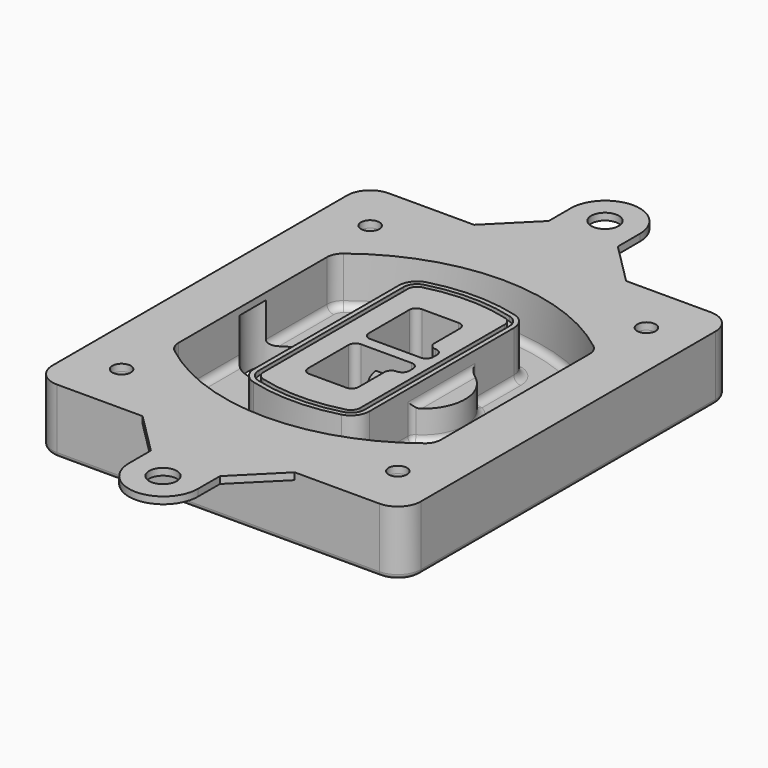
from build123d import *

# Parameters (mm, degrees)
F0_R      = 4
F1_DEPTH  = 25
F2_DEPTH  = 3
F3_DEPTH  = 18
F5_DEPTH  = 21
F6_DEPTH  = 2
F8_DEPTH  = 20
F9_DEPTH  = 16
F10_DEPTH = 25
F7_R      = 6
F7_R_2    = 4
F11_DEPTH = 6
F13_DEPTH = 9
F14_R     = 3
F15_R     = 2
F16_R     = 4
F16_R_2   = 6
F17_DEPTH = 3


with BuildPart() as f1:
    # F0 (on Top) → F1 (new body)
    with BuildSketch(Plane.XY):
        with BuildLine():
            ThreePointArc((-80, -80), (-77.0710678119, -87.0710678119), (-70, -90))
            Line((-70, -90), (70, -90))
            ThreePointArc((70, -90), (77.0710678119, -87.0710678119), (80, -80))
            Line((80, -80), (80, 80))
            ThreePointArc((80, 80), (77.0710678119, 87.0710678119), (70, 90))
            Line((70, 90), (-70, 90))
            ThreePointArc((-70, 90), (-77.0710678119, 87.0710678119), (-80, 80))
            Line((-80, 80), (-80, -80))
        make_face()
        with Locations((-60, -67.5)):
            Circle(F0_R, mode=Mode.SUBTRACT)
        with Locations((60, -67.5)):
            Circle(F0_R, mode=Mode.SUBTRACT)
        with Locations((-60, 67.5)):
            Circle(F0_R, mode=Mode.SUBTRACT)
        with BuildLine():
            ThreePointArc((-64, 40.2934422872), (-62.5820384798, 46.4328484224), (-58.6153846154, 51.3286200352))
            ThreePointArc((-58.6153846154, 51.3286200352), (0, 71.5), (58.6153846154, 51.3286200352))
            ThreePointArc((58.6153846154, 51.3286200352), (62.5820384798, 46.4328484224), (64, 40.2934422872))
            Line((64, 40.2934422872), (64, -40.2934422872))
            ThreePointArc((64, -40.2934422872), (62.5820384798, -46.4328484224), (58.6153846154, -51.3286200352))
            ThreePointArc((58.6153846154, -51.3286200352), (0, -71.5), (-58.6153846154, -51.3286200352))
            ThreePointArc((-58.6153846154, -51.3286200352), (-62.5820384798, -46.4328484224), (-64, -40.2934422872))
            Line((-64, -40.2934422872), (-64, 40.2934422872))
        make_face(mode=Mode.SUBTRACT)
        with Locations((60, 67.5)):
            Circle(F0_R, mode=Mode.SUBTRACT)
        with BuildLine():
            ThreePointArc((58.6153846154, 51.3286200352), (0, 71.5), (-58.6153846154, 51.3286200352))
            ThreePointArc((-58.6153846154, 51.3286200352), (-62.5820384798, 46.4328484224), (-64, 40.2934422872))
            Line((-64, 40.2934422872), (-64, -40.2934422872))
            ThreePointArc((-64, -40.2934422872), (-62.5820384798, -46.4328484224), (-58.6153846154, -51.3286200352))
            ThreePointArc((-58.6153846154, -51.3286200352), (0, -71.5), (58.6153846154, -51.3286200352))
            ThreePointArc((58.6153846154, -51.3286200352), (62.5820384798, -46.4328484224), (64, -40.2934422872))
            Line((64, -40.2934422872), (64, 40.2934422872))
            ThreePointArc((64, 40.2934422872), (62.5820384798, 46.4328484224), (58.6153846154, 51.3286200352))
        make_face()
        with BuildLine():
            Line((-60, -40.2934422872), (-60, 40.2934422872))
            ThreePointArc((-60, 40.2934422872), (-58.9871703427, 44.6787323838), (-56.1538461538, 48.1757121072))
            ThreePointArc((-56.1538461538, 48.1757121072), (0, 67.5), (56.1538461538, 48.1757121072))
            ThreePointArc((56.1538461538, 48.1757121072), (58.9871703427, 44.6787323838), (60, 40.2934422872))
            Line((60, 40.2934422872), (60, -40.2934422872))
            ThreePointArc((60, -40.2934422872), (58.9871703427, -44.6787323838), (56.1538461538, -48.1757121072))
            ThreePointArc((56.1538461538, -48.1757121072), (0, -67.5), (-56.1538461538, -48.1757121072))
            ThreePointArc((-56.1538461538, -48.1757121072), (-58.9871703427, -44.6787323838), (-60, -40.2934422872))
        make_face(mode=Mode.SUBTRACT)
        with BuildLine():
            ThreePointArc((-56.1538461538, 48.1757121072), (-58.9871703427, 44.6787323838), (-60, 40.2934422872))
            Line((-60, 40.2934422872), (-60, -40.2934422872))
            ThreePointArc((-60, -40.2934422872), (-58.9871703427, -44.6787323838), (-56.1538461538, -48.1757121072))
            ThreePointArc((-56.1538461538, -48.1757121072), (0, -67.5), (56.1538461538, -48.1757121072))
            ThreePointArc((56.1538461538, -48.1757121072), (58.9871703427, -44.6787323838), (60, -40.2934422872))
            Line((60, -40.2934422872), (60, 40.2934422872))
            ThreePointArc((60, 40.2934422872), (58.9871703427, 44.6787323838), (56.1538461538, 48.1757121072))
            ThreePointArc((56.1538461538, 48.1757121072), (0, 67.5), (-56.1538461538, 48.1757121072))
        make_face()
        with BuildLine():
            ThreePointArc((54.3076923077, 45.8110311612), (56.2910192399, 43.3631453548), (57, 40.2934422872))
            Line((57, 40.2934422872), (57, -40.2934422872))
            ThreePointArc((57, -40.2934422872), (56.2910192399, -43.3631453548), (54.3076923077, -45.8110311612))
            ThreePointArc((54.3076923077, -45.8110311612), (0, -64.5), (-54.3076923077, -45.8110311612))
            ThreePointArc((-54.3076923077, -45.8110311612), (-56.2910192399, -43.3631453548), (-57, -40.2934422872))
            Line((-57, -40.2934422872), (-57, 40.2934422872))
            ThreePointArc((-57, 40.2934422872), (-56.2910192399, 43.3631453548), (-54.3076923077, 45.8110311612))
            ThreePointArc((-54.3076923077, 45.8110311612), (0, 64.5), (54.3076923077, 45.8110311612))
        make_face(mode=Mode.SUBTRACT)
        with BuildLine():
            Line((57, -40.2934422872), (57, 40.2934422872))
            ThreePointArc((57, 40.2934422872), (56.2910192399, 43.3631453548), (54.3076923077, 45.8110311612))
            ThreePointArc((54.3076923077, 45.8110311612), (0, 64.5), (-54.3076923077, 45.8110311612))
            ThreePointArc((-54.3076923077, 45.8110311612), (-56.2910192399, 43.3631453548), (-57, 40.2934422872))
            Line((-57, 40.2934422872), (-57, -40.2934422872))
            ThreePointArc((-57, -40.2934422872), (-56.2910192399, -43.3631453548), (-54.3076923077, -45.8110311612))
            ThreePointArc((-54.3076923077, -45.8110311612), (0, -64.5), (54.3076923077, -45.8110311612))
            ThreePointArc((54.3076923077, -45.8110311612), (56.2910192399, -43.3631453548), (57, -40.2934422872))
        make_face()
    extrude(amount=-F1_DEPTH)

    # F0 (on Top) → F2 (join)
    with BuildSketch(Plane.XY):
        with BuildLine():
            ThreePointArc((-56.1538461538, 48.1757121072), (-58.9871703427, 44.6787323838), (-60, 40.2934422872))
            Line((-60, 40.2934422872), (-60, -40.2934422872))
            ThreePointArc((-60, -40.2934422872), (-58.9871703427, -44.6787323838), (-56.1538461538, -48.1757121072))
            ThreePointArc((-56.1538461538, -48.1757121072), (0, -67.5), (56.1538461538, -48.1757121072))
            ThreePointArc((56.1538461538, -48.1757121072), (58.9871703427, -44.6787323838), (60, -40.2934422872))
            Line((60, -40.2934422872), (60, 40.2934422872))
            ThreePointArc((60, 40.2934422872), (58.9871703427, 44.6787323838), (56.1538461538, 48.1757121072))
            ThreePointArc((56.1538461538, 48.1757121072), (0, 67.5), (-56.1538461538, 48.1757121072))
        make_face()
        with BuildLine():
            ThreePointArc((54.3076923077, 45.8110311612), (56.2910192399, 43.3631453548), (57, 40.2934422872))
            Line((57, 40.2934422872), (57, -40.2934422872))
            ThreePointArc((57, -40.2934422872), (56.2910192399, -43.3631453548), (54.3076923077, -45.8110311612))
            ThreePointArc((54.3076923077, -45.8110311612), (0, -64.5), (-54.3076923077, -45.8110311612))
            ThreePointArc((-54.3076923077, -45.8110311612), (-56.2910192399, -43.3631453548), (-57, -40.2934422872))
            Line((-57, -40.2934422872), (-57, 40.2934422872))
            ThreePointArc((-57, 40.2934422872), (-56.2910192399, 43.3631453548), (-54.3076923077, 45.8110311612))
            ThreePointArc((-54.3076923077, 45.8110311612), (0, 64.5), (54.3076923077, 45.8110311612))
        make_face(mode=Mode.SUBTRACT)
    extrude(amount=F2_DEPTH)

    # F0 (on Top) → F3 (cut)
    with BuildSketch(Plane.XY):
        with BuildLine():
            Line((57, -40.2934422872), (57, 40.2934422872))
            ThreePointArc((57, 40.2934422872), (56.2910192399, 43.3631453548), (54.3076923077, 45.8110311612))
            ThreePointArc((54.3076923077, 45.8110311612), (0, 64.5), (-54.3076923077, 45.8110311612))
            ThreePointArc((-54.3076923077, 45.8110311612), (-56.2910192399, 43.3631453548), (-57, 40.2934422872))
            Line((-57, 40.2934422872), (-57, -40.2934422872))
            ThreePointArc((-57, -40.2934422872), (-56.2910192399, -43.3631453548), (-54.3076923077, -45.8110311612))
            ThreePointArc((-54.3076923077, -45.8110311612), (0, -64.5), (54.3076923077, -45.8110311612))
            ThreePointArc((54.3076923077, -45.8110311612), (56.2910192399, -43.3631453548), (57, -40.2934422872))
        make_face()
    extrude(amount=-F3_DEPTH, mode=Mode.SUBTRACT)

    # F4 (on face) → F5 (join, through all)
    with BuildSketch(Plane.XY.offset(3)):
        with BuildLine():
            ThreePointArc((-25, -39.2465276821), (-23.3511545998, -44.1109737193), (-19.0842911877, -46.9702398883))
            ThreePointArc((-19.0842911877, -46.9702398883), (0, -49.5), (19.0842911877, -46.9702398883))
            ThreePointArc((19.0842911877, -46.9702398883), (23.3511545998, -44.1109737193), (25, -39.2465276821))
            Line((25, -39.2465276821), (25, 39.2465276821))
            ThreePointArc((25, 39.2465276821), (23.3511545998, 44.1109737193), (19.0842911877, 46.9702398883))
            ThreePointArc((19.0842911877, 46.9702398883), (0, 49.5), (-19.0842911877, 46.9702398883))
            ThreePointArc((-19.0842911877, 46.9702398883), (-23.3511545998, 44.1109737193), (-25, 39.2465276821))
            Line((-25, 39.2465276821), (-25, -39.2465276821))
        make_face()
        with BuildLine():
            ThreePointArc((18.5632183908, 45.0393118368), (21.7633659499, 42.89486221), (23, 39.2465276821))
            Line((23, 39.2465276821), (23, -39.2465276821))
            ThreePointArc((23, -39.2465276821), (21.7633659499, -42.89486221), (18.5632183908, -45.0393118368))
            ThreePointArc((18.5632183908, -45.0393118368), (0, -47.5), (-18.5632183908, -45.0393118368))
            ThreePointArc((-18.5632183908, -45.0393118368), (-21.7633659499, -42.89486221), (-23, -39.2465276821))
            Line((-23, -39.2465276821), (-23, 39.2465276821))
            ThreePointArc((-23, 39.2465276821), (-21.7633659499, 42.89486221), (-18.5632183908, 45.0393118368))
            ThreePointArc((-18.5632183908, 45.0393118368), (0, 47.5), (18.5632183908, 45.0393118368))
        make_face(mode=Mode.SUBTRACT)
        with BuildLine():
            Line((23, -39.2465276821), (23, 39.2465276821))
            ThreePointArc((23, 39.2465276821), (21.7633659499, 42.89486221), (18.5632183908, 45.0393118368))
            ThreePointArc((18.5632183908, 45.0393118368), (0, 47.5), (-18.5632183908, 45.0393118368))
            ThreePointArc((-18.5632183908, 45.0393118368), (-21.7633659499, 42.89486221), (-23, 39.2465276821))
            Line((-23, 39.2465276821), (-23, -39.2465276821))
            ThreePointArc((-23, -39.2465276821), (-21.7633659499, -42.89486221), (-18.5632183908, -45.0393118368))
            ThreePointArc((-18.5632183908, -45.0393118368), (0, -47.5), (18.5632183908, -45.0393118368))
            ThreePointArc((18.5632183908, -45.0393118368), (21.7633659499, -42.89486221), (23, -39.2465276821))
        make_face()
        with BuildLine():
            ThreePointArc((18.0421455939, 43.1083837852), (20.1755772999, 41.6787507007), (21, 39.2465276821))
            Line((21, 39.2465276821), (21, -39.2465276821))
            ThreePointArc((21, -39.2465276821), (20.1755772999, -41.6787507007), (18.0421455939, -43.1083837852))
            ThreePointArc((18.0421455939, -43.1083837852), (0, -45.5), (-18.0421455939, -43.1083837852))
            ThreePointArc((-18.0421455939, -43.1083837852), (-20.1755772999, -41.6787507007), (-21, -39.2465276821))
            Line((-21, -39.2465276821), (-21, 39.2465276821))
            ThreePointArc((-21, 39.2465276821), (-20.1755772999, 41.6787507007), (-18.0421455939, 43.1083837852))
            ThreePointArc((-18.0421455939, 43.1083837852), (0, 45.5), (18.0421455939, 43.1083837852))
        make_face(mode=Mode.SUBTRACT)
        with BuildLine():
            Line((21, -39.2465276821), (21, 39.2465276821))
            ThreePointArc((21, 39.2465276821), (20.1755772999, 41.6787507007), (18.0421455939, 43.1083837852))
            ThreePointArc((18.0421455939, 43.1083837852), (0, 45.5), (-18.0421455939, 43.1083837852))
            ThreePointArc((-18.0421455939, 43.1083837852), (-20.1755772999, 41.6787507007), (-21, 39.2465276821))
            Line((-21, 39.2465276821), (-21, -39.2465276821))
            ThreePointArc((-21, -39.2465276821), (-20.1755772999, -41.6787507007), (-18.0421455939, -43.1083837852))
            ThreePointArc((-18.0421455939, -43.1083837852), (0, -45.5), (18.0421455939, -43.1083837852))
            ThreePointArc((18.0421455939, -43.1083837852), (20.1755772999, -41.6787507007), (21, -39.2465276821))
        make_face()
        with BuildLine():
            Line((-8, -2.5), (14, -2.5))
            ThreePointArc((14, -2.5), (16.1213203436, -3.3786796564), (17, -5.5))
            Line((17, -5.5), (17, -7.5))
            ThreePointArc((17, -7.5), (16.1213203436, -9.6213203436), (14, -10.5))
            ThreePointArc((14, -10.5), (11.8786796564, -11.3786796564), (11, -13.5))
            Line((11, -13.5), (11, -27.5))
            ThreePointArc((11, -27.5), (10.1213203436, -29.6213203436), (8, -30.5))
            Line((8, -30.5), (-8, -30.5))
            ThreePointArc((-8, -30.5), (-10.1213203436, -29.6213203436), (-11, -27.5))
            Line((-11, -27.5), (-11, -5.5))
            ThreePointArc((-11, -5.5), (-10.1213203436, -3.3786796564), (-8, -2.5))
        make_face(mode=Mode.SUBTRACT)
        with BuildLine():
            ThreePointArc((-8, 2.5), (-10.1213203436, 3.3786796564), (-11, 5.5))
            Line((-11, 5.5), (-11, 27.5))
            ThreePointArc((-11, 27.5), (-10.1213203436, 29.6213203436), (-8, 30.5))
            Line((-8, 30.5), (8, 30.5))
            ThreePointArc((8, 30.5), (10.1213203436, 29.6213203436), (11, 27.5))
            Line((11, 27.5), (11, 13.5))
            ThreePointArc((11, 13.5), (11.8786796564, 11.3786796564), (14, 10.5))
            ThreePointArc((14, 10.5), (16.1213203436, 9.6213203436), (17, 7.5))
            Line((17, 7.5), (17, 5.5))
            ThreePointArc((17, 5.5), (16.1213203436, 3.3786796564), (14, 2.5))
            Line((14, 2.5), (-8, 2.5))
        make_face(mode=Mode.SUBTRACT)
    extrude(amount=-F5_DEPTH)

    # F4 (on face) → F6 (cut)
    with BuildSketch(Plane.XY.offset(3)):
        with BuildLine():
            Line((23, -39.2465276821), (23, 39.2465276821))
            ThreePointArc((23, 39.2465276821), (21.7633659499, 42.89486221), (18.5632183908, 45.0393118368))
            ThreePointArc((18.5632183908, 45.0393118368), (0, 47.5), (-18.5632183908, 45.0393118368))
            ThreePointArc((-18.5632183908, 45.0393118368), (-21.7633659499, 42.89486221), (-23, 39.2465276821))
            Line((-23, 39.2465276821), (-23, -39.2465276821))
            ThreePointArc((-23, -39.2465276821), (-21.7633659499, -42.89486221), (-18.5632183908, -45.0393118368))
            ThreePointArc((-18.5632183908, -45.0393118368), (0, -47.5), (18.5632183908, -45.0393118368))
            ThreePointArc((18.5632183908, -45.0393118368), (21.7633659499, -42.89486221), (23, -39.2465276821))
        make_face()
        with BuildLine():
            ThreePointArc((18.0421455939, 43.1083837852), (20.1755772999, 41.6787507007), (21, 39.2465276821))
            Line((21, 39.2465276821), (21, -39.2465276821))
            ThreePointArc((21, -39.2465276821), (20.1755772999, -41.6787507007), (18.0421455939, -43.1083837852))
            ThreePointArc((18.0421455939, -43.1083837852), (0, -45.5), (-18.0421455939, -43.1083837852))
            ThreePointArc((-18.0421455939, -43.1083837852), (-20.1755772999, -41.6787507007), (-21, -39.2465276821))
            Line((-21, -39.2465276821), (-21, 39.2465276821))
            ThreePointArc((-21, 39.2465276821), (-20.1755772999, 41.6787507007), (-18.0421455939, 43.1083837852))
            ThreePointArc((-18.0421455939, 43.1083837852), (0, 45.5), (18.0421455939, 43.1083837852))
        make_face(mode=Mode.SUBTRACT)
    extrude(amount=-F6_DEPTH, mode=Mode.SUBTRACT)

    # F7 (on face) → F8 (join)
    with BuildSketch(Plane(origin=(0, 0, -25), x_dir=(1, 0, 0), z_dir=(0, 0, -1))):
        with BuildLine():
            ThreePointArc((3.28842436, 0), (16.7567035675, 13.4682792075), (30.224982775, 0))
            Line((30.224982775, 0), (35.224982775, 0))
            ThreePointArc((35.224982775, 0), (16.7567035675, 18.4682792075), (-1.71157564, 0))
            Line((-1.71157564, 0), (3.28842436, 0))
        make_face()
        with BuildLine():
            Line((3.28842436, 0), (30.224982775, 0))
            ThreePointArc((30.224982775, 0), (16.7567035675, 13.4682792075), (3.28842436, 0))
        make_face()
        with BuildLine():
            ThreePointArc((3.28842436, 0), (16.7567035675, -13.4682792075), (30.224982775, 0))
            Line((30.224982775, 0), (3.28842436, 0))
        make_face()
        with BuildLine():
            Line((35.224982775, 0), (30.224982775, 0))
            ThreePointArc((30.224982775, 0), (16.7567035675, -13.4682792075), (3.28842436, 0))
            Line((3.28842436, 0), (-1.71157564, 0))
            ThreePointArc((-1.71157564, 0), (16.7567035675, -18.4682792075), (35.224982775, 0))
        make_face()
    extrude(amount=-F8_DEPTH)

    # F7 (on face) → F9 (cut)
    with BuildSketch(Plane(origin=(0, 0, -25), x_dir=(1, 0, 0), z_dir=(0, 0, -1))):
        with BuildLine():
            Line((3.28842436, 0), (30.224982775, 0))
            ThreePointArc((30.224982775, 0), (16.7567035675, 13.4682792075), (3.28842436, 0))
        make_face()
        with BuildLine():
            ThreePointArc((3.28842436, 0), (16.7567035675, -13.4682792075), (30.224982775, 0))
            Line((30.224982775, 0), (3.28842436, 0))
        make_face()
    extrude(amount=-F9_DEPTH, mode=Mode.SUBTRACT)

    # F7 (on face) → F10 (cut)
    with BuildSketch(Plane(origin=(0, 0, -25), x_dir=(1, 0, 0), z_dir=(0, 0, -1))):
        with BuildLine():
            Line((-59.0318229325, 0), (-32.0952645175, 0))
            ThreePointArc((-32.0952645175, 0), (-45.563543725, 13.4682792075), (-59.0318229325, 0))
        make_face()
        with BuildLine():
            ThreePointArc((-59.0318229325, 0), (-45.563543725, -13.4682792075), (-32.0952645175, 0))
            Line((-32.0952645175, 0), (-59.0318229325, 0))
        make_face()
    extrude(amount=-F10_DEPTH, mode=Mode.SUBTRACT)

    # F7 (on face) → F11 (cut)
    with BuildSketch(Plane(origin=(0, 0, -25), x_dir=(1, 0, 0), z_dir=(0, 0, -1))):
        with Locations((60, -67.5)):
            Circle(F7_R)
        with Locations((60, -67.5)):
            Circle(F7_R_2, mode=Mode.SUBTRACT)
        with Locations((60, -67.5)):
            Circle(F7_R)
        with Locations((60, -67.5)):
            Circle(F7_R_2, mode=Mode.SUBTRACT)
        with Locations((-60, -67.5)):
            Circle(F7_R)
        with Locations((-60, -67.5)):
            Circle(F7_R_2, mode=Mode.SUBTRACT)
        with Locations((-60, -67.5)):
            Circle(F7_R)
        with Locations((-60, -67.5)):
            Circle(F7_R_2, mode=Mode.SUBTRACT)
        with Locations((-60, 67.5)):
            Circle(F7_R)
        with Locations((-60, 67.5)):
            Circle(F7_R_2, mode=Mode.SUBTRACT)
        with Locations((-60, 67.5)):
            Circle(F7_R)
        with Locations((-60, 67.5)):
            Circle(F7_R_2, mode=Mode.SUBTRACT)
        with Locations((60, 67.5)):
            Circle(F7_R)
        with Locations((60, 67.5)):
            Circle(F7_R_2, mode=Mode.SUBTRACT)
        with Locations((60, 67.5)):
            Circle(F7_R)
        with Locations((60, 67.5)):
            Circle(F7_R_2, mode=Mode.SUBTRACT)
    extrude(amount=-F11_DEPTH, mode=Mode.SUBTRACT)

    # F12 (on face) → F13 (cut, through all)
    with BuildSketch(Plane(origin=(0, 0, -9), x_dir=(1, 0, 0), z_dir=(0, 0, -1))):
        with BuildLine():
            Line((11, 13.5), (11, 17.5481537753))
            ThreePointArc((11, 17.5481537753), (2.5696536419, 11.8239143813), (-1.5415842455, 2.5))
            Line((-1.5415842455, 2.5), (3.5224848595, 2.5))
            ThreePointArc((3.5224848595, 2.5), (6.1857188154, 8.3455872281), (11.2536447004, 12.2927168648))
            ThreePointArc((11.2536447004, 12.2927168648), (11.0640958889, 12.8831798879), (11, 13.5))
        make_face()
        with BuildLine():
            ThreePointArc((11.2536447004, -12.2927168648), (6.1857188154, -8.3455872281), (3.5224848595, -2.5))
            Line((3.5224848595, -2.5), (-1.5415842455, -2.5))
            ThreePointArc((-1.5415842455, -2.5), (2.5696536419, -11.8239143813), (11, -17.5481537753))
            Line((11, -17.5481537753), (11, -13.5))
            ThreePointArc((11, -13.5), (11.0640958889, -12.8831798879), (11.2536447004, -12.2927168648))
        make_face()
        with BuildLine():
            ThreePointArc((11.2536447004, 12.2927168648), (6.1857188154, 8.3455872281), (3.5224848595, 2.5))
            Line((3.5224848595, 2.5), (14, 2.5))
            ThreePointArc((14, 2.5), (16.1213203436, 3.3786796564), (17, 5.5))
            Line((17, 5.5), (17, 7.5))
            ThreePointArc((17, 7.5), (16.1213203436, 9.6213203436), (14, 10.5))
            ThreePointArc((14, 10.5), (12.3601599782, 10.9878446101), (11.2536447004, 12.2927168648))
        make_face()
        with BuildLine():
            Line((14, -2.5), (3.5224848595, -2.5))
            ThreePointArc((3.5224848595, -2.5), (6.1857188154, -8.3455872281), (11.2536447004, -12.2927168648))
            ThreePointArc((11.2536447004, -12.2927168648), (12.3601599782, -10.9878446101), (14, -10.5))
            ThreePointArc((14, -10.5), (16.1213203436, -9.6213203436), (17, -7.5))
            Line((17, -7.5), (17, -5.5))
            ThreePointArc((17, -5.5), (16.1213203436, -3.3786796564), (14, -2.5))
        make_face()
    extrude(amount=F13_DEPTH, mode=Mode.SUBTRACT)

    # F14
    f14_edges = [f1.edges().sort_by_distance(p)[0] for p in [
        (-57, -23.703476, -18),
        (-57, 23.703476, -18),
        (25, 0, -5),
        (25, 16.526506, -11.5),
        (25, -16.526506, -11.5),
        (25, -27.886517, -18),
        (35.224983, 0, -18),
    ]]
    fillet(f14_edges, radius=F14_R)

    # F15
    f15_edges = [f1.edges().sort_by_distance(p)[0] for p in [
        (0, -90, -25),
    ]]
    fillet(f15_edges, radius=F15_R)

    # F16 (on face) → F17 (join, through all)
    with BuildSketch(Plane.XY):
        with BuildLine():
            Line((70, 90), (33.1726234777, 90))
            Line((33.1726234777, 90), (-32.8633550853, 90))
            Line((-32.8633550853, 90), (-70, 90))
            ThreePointArc((-70, 90), (-77.0710678119, 87.0710678119), (-80, 80))
            Line((-80, 80), (-80, -80))
            ThreePointArc((-80, -80), (-77.0710678119, -87.0710678119), (-70, -90))
            Line((-70, -90), (-32.8633550853, -90))
            Line((-32.8633550853, -90), (33.1726234777, -90))
            Line((33.1726234777, -90), (70, -90))
            ThreePointArc((70, -90), (77.0710678119, -87.0710678119), (80, -80))
            Line((80, -80), (80, 80))
            ThreePointArc((80, 80), (77.0710678119, 87.0710678119), (70, 90))
        make_face()
        with Locations((-60, -67.5)):
            Circle(F16_R, mode=Mode.SUBTRACT)
        with Locations((60, -67.5)):
            Circle(F16_R, mode=Mode.SUBTRACT)
        with Locations((-60, 67.5)):
            Circle(F16_R, mode=Mode.SUBTRACT)
        with BuildLine():
            ThreePointArc((-60, 40.2934422872), (-58.9871703427, 44.6787323838), (-56.1538461538, 48.1757121072))
            ThreePointArc((-56.1538461538, 48.1757121072), (0, 67.5), (56.1538461538, 48.1757121072))
            ThreePointArc((56.1538461538, 48.1757121072), (58.9871703427, 44.6787323838), (60, 40.2934422872))
            Line((60, 40.2934422872), (60, -40.2934422872))
            ThreePointArc((60, -40.2934422872), (58.9871703427, -44.6787323838), (56.1538461538, -48.1757121072))
            ThreePointArc((56.1538461538, -48.1757121072), (0, -67.5), (-56.1538461538, -48.1757121072))
            ThreePointArc((-56.1538461538, -48.1757121072), (-58.9871703427, -44.6787323838), (-60, -40.2934422872))
            Line((-60, -40.2934422872), (-60, 40.2934422872))
        make_face(mode=Mode.SUBTRACT)
        with Locations((60, 67.5)):
            Circle(F16_R, mode=Mode.SUBTRACT)
        with BuildLine():
            Line((15.1726234777, 108), (15.1365090561, 120))
            ThreePointArc((15.1365090561, 120), (0.1365769854, 134.9548571774), (-14.8633550853, 120))
            Line((-14.8633550853, 120), (-14.8633550853, 108))
            Line((-14.8633550853, 108), (-32.8633550853, 90))
            Line((-32.8633550853, 90), (33.1726234777, 90))
            Line((33.1726234777, 90), (15.1726234777, 108))
        make_face()
        with Locations((0, 120)):
            Circle(F16_R_2, mode=Mode.SUBTRACT)
        with BuildLine():
            Line((15.1726234777, -108), (33.1726234777, -90))
            Line((33.1726234777, -90), (-32.8633550853, -90))
            Line((-32.8633550853, -90), (-14.8633550853, -108))
            Line((-14.8633550853, -108), (-14.8633550853, -120))
            ThreePointArc((-14.8633550853, -120), (0.1365769854, -134.9548571774), (15.1365090561, -120))
            Line((15.1365090561, -120), (15.1726234777, -108))
        make_face()
        with Locations((0, -120)):
            Circle(F16_R_2, mode=Mode.SUBTRACT)
    extrude(amount=F17_DEPTH)


solid = f1.part
